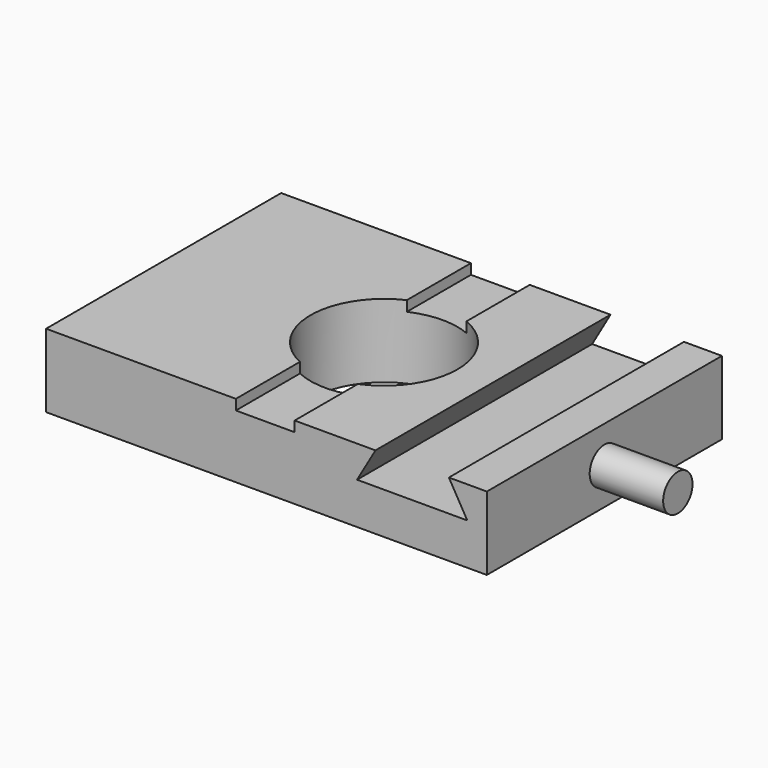
from build123d import *

# Parameters (mm, degrees)
F0_W     = 76.2
F0_H     = 50.8
F0_R     = 12.7
F1_DEPTH = 12.7
F3_DEPTH = 1.778
F5_DEPTH = 50.8
F6_R     = 3.175
F7_DEPTH = 12.7


with BuildPart() as f1:
    # F0 (on Top) → F1 (new body)
    with BuildSketch(Plane.XY):
        Rectangle(F0_W, F0_H)
        Circle(F0_R, mode=Mode.SUBTRACT)
    extrude(amount=F1_DEPTH)

    # F2 (on face) → F3 (cut)
    with BuildSketch(Plane.XY.offset(12.7)):
        with BuildLine():
            Line((4.8691992944, 25.4), (-5.2908007056, 25.4))
            Line((-5.2908007056, 25.4), (-5.2908007056, 11.545450528))
            ThreePointArc((-5.2908007056, 11.545450528), (-0.2300096138, 12.6979169779), (4.8691992944, 11.7294884045))
            Line((4.8691992944, 11.7294884045), (4.8691992944, 25.4))
        make_face()
        with BuildLine():
            Line((-5.2908007056, -11.545450528), (-5.2908007056, -25.4))
            Line((-5.2908007056, -25.4), (4.8691992944, -25.4))
            Line((4.8691992944, -25.4), (4.8691992944, -11.7294884045))
            ThreePointArc((4.8691992944, -11.7294884045), (-0.2300096138, -12.6979169779), (-5.2908007056, -11.545450528))
        make_face()
        with BuildLine():
            Line((-5.2908007056, 11.545450528), (-5.2908007056, -11.545450528))
            ThreePointArc((-5.2908007056, -11.545450528), (-0.2300096138, -12.6979169779), (4.8691992944, -11.7294884045))
            Line((4.8691992944, -11.7294884045), (4.8691992944, 11.7294884045))
            ThreePointArc((4.8691992944, 11.7294884045), (-0.2300096138, 12.6979169779), (-5.2908007056, 11.545450528))
        make_face()
    extrude(amount=-F3_DEPTH, mode=Mode.SUBTRACT)

    # F4 (on face) → F5 (cut, through all)
    with BuildSketch(Plane.XZ.offset(25.4)):
        Polygon((31.5391992944, 12.7), (18.8391992944, 12.7), (15.6641992944, 7.200738686), (34.7141992944, 7.200738686), align=None)
    extrude(amount=-F5_DEPTH, mode=Mode.SUBTRACT)

    # F6 (on face) → F7 (join)
    with BuildSketch(Plane.YZ.offset(38.1)):
        with Locations((0, 6.35)):
            Circle(F6_R)
    extrude(amount=F7_DEPTH)


solid = f1.part
